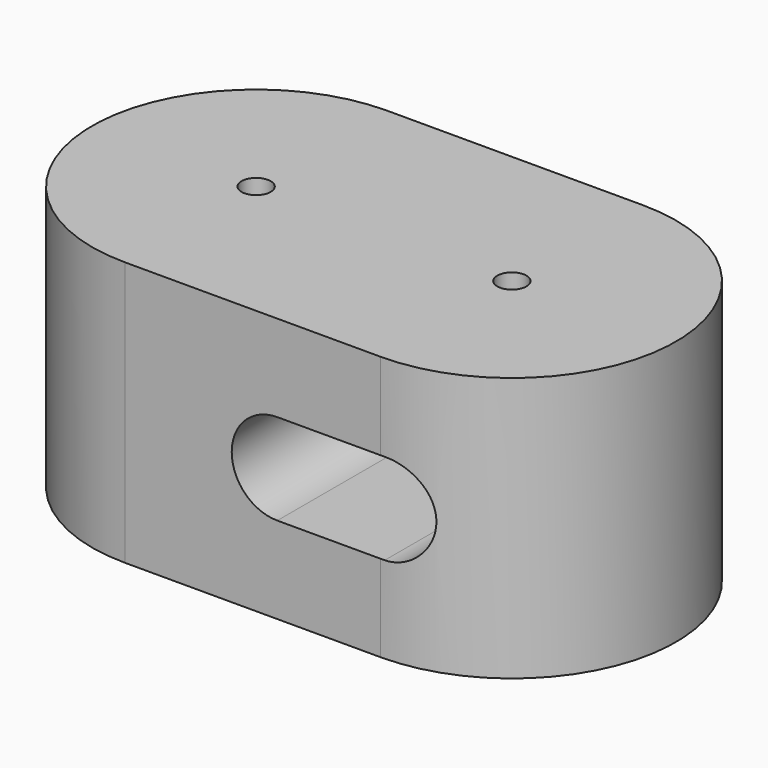
from build123d import *

# Parameters (mm, degrees)
F0_R     = 1.27
F1_DEPTH = 23.0124
F3_DEPTH = 50.8


with BuildPart() as f1:
    # F0 (on Top) → F1 (new body)
    with BuildSketch(Plane.XY):
        with BuildLine():
            ThreePointArc((0, 28.5496), (-14.2748, 14.2748), (0, 0))
            Line((0, 0), (22.2504, 0))
            ThreePointArc((22.2504, 0), (36.5252, 14.2748), (22.2504, 28.5496))
            Line((22.2504, 28.5496), (0, 28.5496))
        make_face()
        with Locations((0, 14.2748)):
            Circle(F0_R, mode=Mode.SUBTRACT)
        with Locations((22.2504, 14.2748)):
            Circle(F0_R, mode=Mode.SUBTRACT)
    extrude(amount=F1_DEPTH)

    # F2 (on face) → F3 (cut)
    with BuildSketch(Plane(origin=(0, 28.5496, 0), x_dir=(-1, 0, 0), z_dir=(0, 1, 0))):
        with BuildLine():
            ThreePointArc((-22.606, 15.4686), (-26.5684, 11.5062), (-22.606, 7.5438))
            Line((-22.606, 7.5438), (-22.2504, 7.5438))
            Line((-22.2504, 7.5438), (-22.2504, 15.4686))
            Line((-22.2504, 15.4686), (-22.606, 15.4686))
        make_face()
        with BuildLine():
            Line((-22.2504, 15.4686), (-22.2504, 7.5438))
            Line((-22.2504, 7.5438), (-13.2588, 7.5438))
            ThreePointArc((-13.2588, 7.5438), (-9.2964, 11.5062), (-13.2588, 15.4686))
            Line((-13.2588, 15.4686), (-22.2504, 15.4686))
        make_face()
    extrude(amount=-F3_DEPTH, mode=Mode.SUBTRACT)


solid = f1.part
